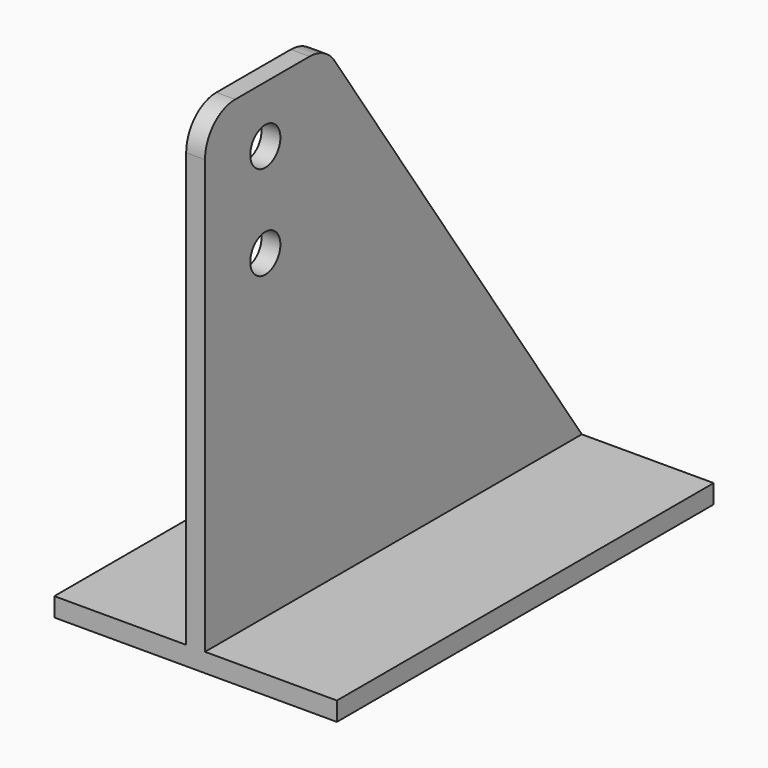
from build123d import *

# Parameters (mm, degrees)
F0_W     = 15
F0_H     = 25
F1_DEPTH = 1
F2_W     = 1
F2_H     = 25
F3_DEPTH = 25
F4_R     = 1
F5_DEPTH = 1
F6_R     = 2


with BuildPart() as f1:
    # F0 (on Top) → F1 (new body)
    with BuildSketch(Plane.XY):
        Rectangle(F0_W, F0_H)
    extrude(amount=F1_DEPTH)

    # F2 (on face) → F3 (join)
    with BuildSketch(Plane.XY.offset(1)):
        Rectangle(F2_W, F2_H)
    extrude(amount=F3_DEPTH)

    # F4 (on face) → F5 (cut, through all)
    with BuildSketch(Plane.YZ.offset(0.5)):
        Polygon((-4.5, 26), (12.5, 1), (12.5, 26), align=None)
        with Locations((-8.5, 23)):
            Circle(F4_R)
        with Locations((-8.5, 18)):
            Circle(F4_R)
    extrude(amount=-F5_DEPTH, mode=Mode.SUBTRACT)

    # F6
    f6_edges = [f1.edges().sort_by_distance(p)[0] for p in [
        (0, -12.5, 26),
        (0, -4.5, 26),
    ]]
    fillet(f6_edges, radius=F6_R)


solid = f1.part
